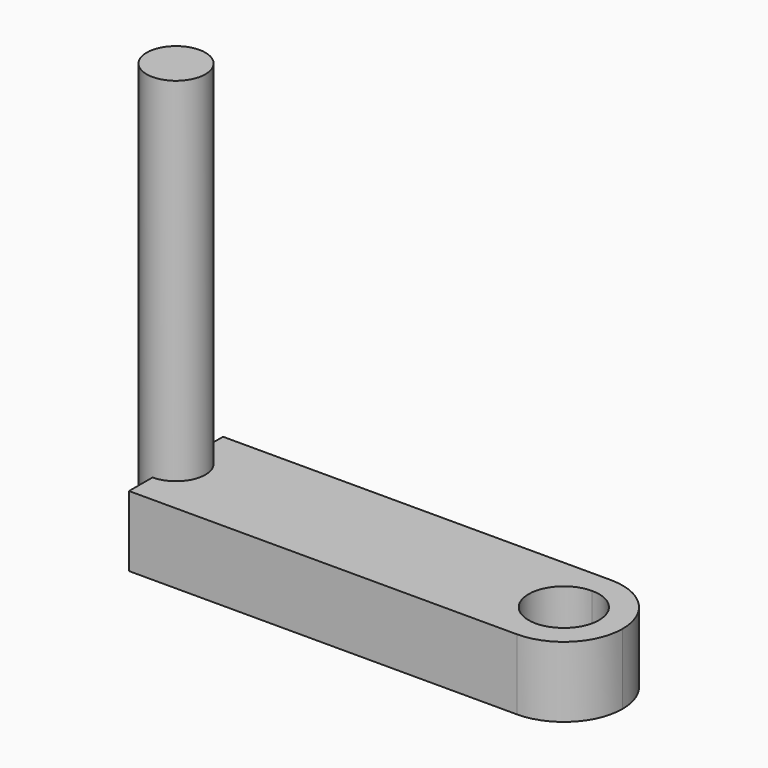
from build123d import *

# Parameters (mm, degrees)
F1_DEPTH = 3
F2_DEPTH = 18


with BuildPart() as f1:
    # F0 (on Top) → F1 (new body)
    with BuildSketch(Plane.XY):
        with BuildLine():
            Line((8.2505, 5), (-8.2505, 5))
            Line((-8.2505, 5), (-8.2505, 3.75))
            ThreePointArc((-8.2505, 3.75), (-7.3666165235, 3.3838834765), (-7.0005, 2.5))
            ThreePointArc((-7.0005, 2.5), (-7.3666165235, 1.6161165235), (-8.2505, 1.25))
            Line((-8.2505, 1.25), (-8.2505, 0))
            Line((-8.2505, 0), (8.2505, 0))
            ThreePointArc((8.2505, 0), (5.7505, 2.5), (8.2505, 5))
        make_face()
        with BuildLine():
            ThreePointArc((10.7505, 2.5), (10.018266953, 4.267766953), (8.2505, 5))
            Line((8.2505, 5), (8.2505, 4))
            ThreePointArc((8.2505, 4), (9.3111601718, 3.5606601718), (9.7505, 2.5))
            ThreePointArc((9.7505, 2.5), (9.3111601718, 1.4393398282), (8.2505, 1))
            Line((8.2505, 1), (8.2505, 0))
            ThreePointArc((8.2505, 0), (10.018266953, 0.732233047), (10.7505, 2.5))
        make_face()
        with BuildLine():
            Line((8.2505, 4), (8.2505, 5))
            ThreePointArc((8.2505, 5), (5.7505, 2.5), (8.2505, 0))
            Line((8.2505, 0), (8.2505, 1))
            ThreePointArc((8.2505, 1), (6.7505, 2.5), (8.2505, 4))
        make_face()
        with BuildLine():
            ThreePointArc((-7.0005, 2.5), (-7.3666165235, 3.3838834765), (-8.2505, 3.75))
            Line((-8.2505, 3.75), (-8.2505, 1.25))
            ThreePointArc((-8.2505, 1.25), (-7.3666165235, 1.6161165235), (-7.0005, 2.5))
        make_face()
        with BuildLine():
            Line((-8.2505, 1.25), (-8.2505, 3.75))
            ThreePointArc((-8.2505, 3.75), (-9.5005, 2.5), (-8.2505, 1.25))
        make_face()
    extrude(amount=F1_DEPTH)

    # F0 (on Top) → F2 (join)
    with BuildSketch(Plane.XY):
        with BuildLine():
            ThreePointArc((-7.0005, 2.5), (-7.3666165235, 3.3838834765), (-8.2505, 3.75))
            Line((-8.2505, 3.75), (-8.2505, 1.25))
            ThreePointArc((-8.2505, 1.25), (-7.3666165235, 1.6161165235), (-7.0005, 2.5))
        make_face()
        with BuildLine():
            Line((-8.2505, 1.25), (-8.2505, 3.75))
            ThreePointArc((-8.2505, 3.75), (-9.5005, 2.5), (-8.2505, 1.25))
        make_face()
    extrude(amount=F2_DEPTH)


solid = f1.part
